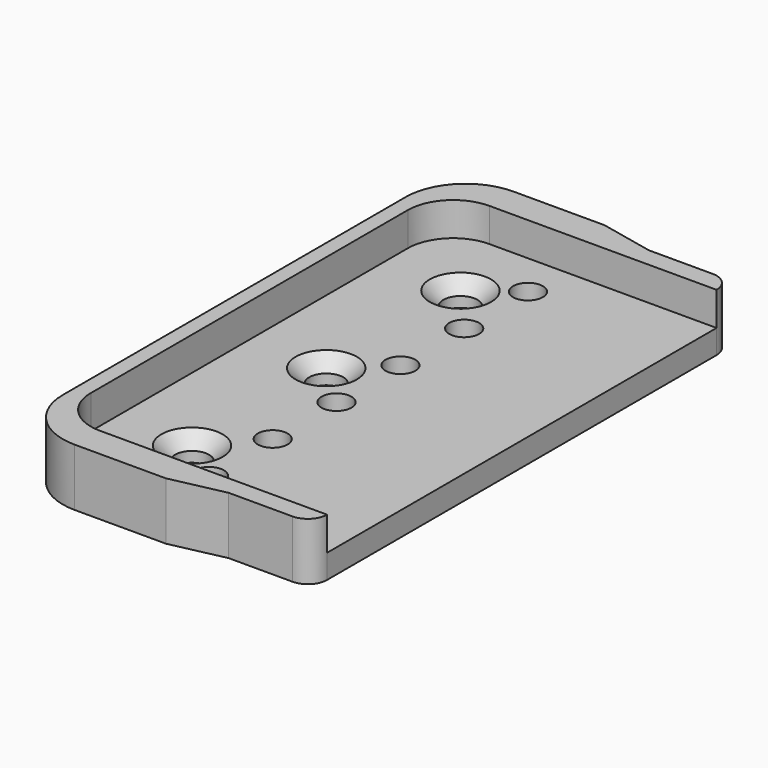
from build123d import *

# Parameters (mm, degrees)
F0_R     = 2.26
F0_R_2   = 1.98
F1_DEPTH = 3.17
F2_DEPTH = 7.62
F3_SIZE  = 1.8


with BuildPart() as f1:
    # F0 (on Top) → F1 (new body)
    with BuildSketch(Plane.XY):
        with BuildLine():
            Line((0, -32.255), (0, 0))
            Line((0, 0), (0, 32.255))
            Line((0, 32.255), (-30.1, 32.255))
            ThreePointArc((-30.1, 32.255), (-34.342641, 30.497641), (-36.1, 26.255))
            Line((-36.1, 26.255), (-36.1, -26.255))
            ThreePointArc((-36.1, -26.255), (-34.342641, -30.497641), (-30.1, -32.255))
            Line((-30.1, -32.255), (0, -32.255))
        make_face()
        with Locations((-25.91, -22.225)):
            Circle(F0_R, mode=Mode.SUBTRACT)
        with Locations((-20.32, -26.415)):
            Circle(F0_R_2, mode=Mode.SUBTRACT)
        with Locations((-20.32, -15.855)):
            Circle(F0_R_2, mode=Mode.SUBTRACT)
        with Locations((-20.32, -5.295)):
            Circle(F0_R_2, mode=Mode.SUBTRACT)
        with Locations((-25.91, 0)):
            Circle(F0_R, mode=Mode.SUBTRACT)
        with Locations((-20.32, 5.295)):
            Circle(F0_R_2, mode=Mode.SUBTRACT)
        with Locations((-20.32, 15.855)):
            Circle(F0_R_2, mode=Mode.SUBTRACT)
        with Locations((-25.91, 22.225)):
            Circle(F0_R, mode=Mode.SUBTRACT)
        with Locations((-20.32, 26.415)):
            Circle(F0_R_2, mode=Mode.SUBTRACT)
        with BuildLine():
            Line((-30.1, 32.255), (0, 32.255))
            ThreePointArc((0, 32.255), (-0.743949, 34.051051), (-2.54, 34.795))
            Line((-2.54, 34.795), (-11, 34.795))
            Line((-11, 34.795), (-18.1, 36.32))
            Line((-18.1, 36.32), (-30.1752, 36.32))
            ThreePointArc((-30.1752, 36.32), (-35.77888, 33.99888), (-38.1, 28.3952))
            Line((-38.1, 28.3952), (-38.1, 0))
            Line((-38.1, 0), (-38.1, -28.3952))
            ThreePointArc((-38.1, -28.3952), (-35.77888, -33.99888), (-30.1752, -36.32))
            Line((-30.1752, -36.32), (-18.1, -36.32))
            Line((-18.1, -36.32), (-11, -34.795))
            Line((-11, -34.795), (-2.54, -34.795))
            ThreePointArc((-2.54, -34.795), (-0.743949, -34.051051), (0, -32.255))
            Line((0, -32.255), (-30.1, -32.255))
            ThreePointArc((-30.1, -32.255), (-34.342641, -30.497641), (-36.1, -26.255))
            Line((-36.1, -26.255), (-36.1, 26.255))
            ThreePointArc((-36.1, 26.255), (-34.342641, 30.497641), (-30.1, 32.255))
        make_face()
    extrude(amount=F1_DEPTH)

    # F0 (on Top) → F2 (join)
    with BuildSketch(Plane.XY):
        with BuildLine():
            Line((-30.1, 32.255), (0, 32.255))
            ThreePointArc((0, 32.255), (-0.743949, 34.051051), (-2.54, 34.795))
            Line((-2.54, 34.795), (-11, 34.795))
            Line((-11, 34.795), (-18.1, 36.32))
            Line((-18.1, 36.32), (-30.1752, 36.32))
            ThreePointArc((-30.1752, 36.32), (-35.77888, 33.99888), (-38.1, 28.3952))
            Line((-38.1, 28.3952), (-38.1, 0))
            Line((-38.1, 0), (-38.1, -28.3952))
            ThreePointArc((-38.1, -28.3952), (-35.77888, -33.99888), (-30.1752, -36.32))
            Line((-30.1752, -36.32), (-18.1, -36.32))
            Line((-18.1, -36.32), (-11, -34.795))
            Line((-11, -34.795), (-2.54, -34.795))
            ThreePointArc((-2.54, -34.795), (-0.743949, -34.051051), (0, -32.255))
            Line((0, -32.255), (-30.1, -32.255))
            ThreePointArc((-30.1, -32.255), (-34.342641, -30.497641), (-36.1, -26.255))
            Line((-36.1, -26.255), (-36.1, 26.255))
            ThreePointArc((-36.1, 26.255), (-34.342641, 30.497641), (-30.1, 32.255))
        make_face()
    extrude(amount=F2_DEPTH)

    # F3
    f3_edges = [f1.edges().sort_by_distance(p)[0] for p in [
        (-28.17, -22.225, 3.17),
        (-28.17, 0, 3.17),
        (-28.17, 22.225, 3.17),
    ]]
    chamfer(f3_edges, length=F3_SIZE)


solid = f1.part
